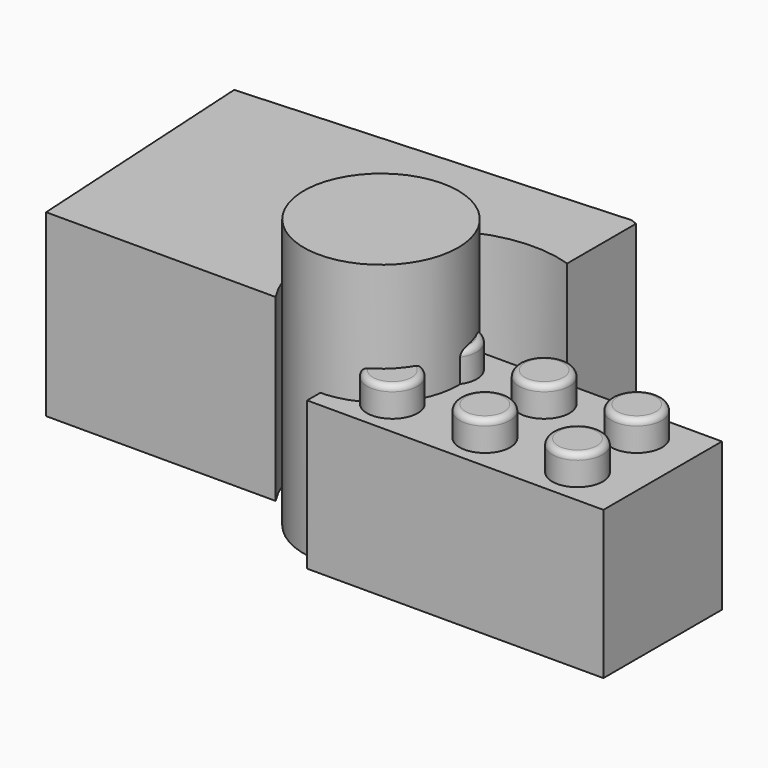
from build123d import *

# Parameters (mm, degrees)
F0_W      = 254
F0_H      = 127
F1_DEPTH  = 127
F2_R      = 21.714111
F3_DEPTH  = 25.4
F4_W      = 234.311492
F4_H      = 107.570172
F5_DEPTH  = 114.3
F6_R      = 5.08
F8_DEPTH  = 153.924
F9_R      = 66.152847
F10_DEPTH = 230.886


with BuildPart() as f1:
    # F0 (on Top) → F1 (new body)
    with BuildSketch(Plane.XY):
        Rectangle(F0_W, F0_H)
    extrude(amount=F1_DEPTH)

    # F2 (on face) → F3 (join)
    with BuildSketch(Plane.XY.offset(127)):
        with Locations((-79.375, 31.75)):
            Circle(F2_R)
        with Locations((0, 31.75)):
            Circle(F2_R)
        with Locations((79.375, 31.75)):
            Circle(F2_R)
        with Locations((79.375, -31.75)):
            Circle(F2_R)
        with Locations((0, -31.75)):
            Circle(F2_R)
        with Locations((-79.375, -31.75)):
            Circle(F2_R)
    extrude(amount=F3_DEPTH)

    # F4 (on face) → F5 (cut)
    with BuildSketch(Plane(origin=(0, 0, 0), x_dir=(1, 0, 0), z_dir=(0, 0, -1))):
        Rectangle(F4_W, F4_H)
    extrude(amount=-F5_DEPTH, mode=Mode.SUBTRACT)

    # F6
    f6_edges = [f1.edges().sort_by_distance(p)[0] for p in [
        (57.660889, 31.75, 152.4),
        (-21.714111, 31.75, 152.4),
        (-101.089111, 31.75, 152.4),
        (-101.089111, -31.75, 152.4),
        (-21.714111, -31.75, 152.4),
        (57.660889, -31.75, 152.4),
    ]]
    fillet(f6_edges, radius=F6_R)


with BuildPart() as f8:
    # F7 (on Top) → F8 (new body)
    with BuildSketch(Plane.XY):
        with BuildLine():
            Line((-401.586056, 0), (-204.827577, 0))
            ThreePointArc((-204.827577, 0), (-200.346246, 123.11768), (-82.770452, 159.914121))
            Line((-82.770452, 159.914121), (-82.770452, 233.648032))
            Line((-82.770452, 233.648032), (-88.275902, 235.853811))
            Line((-88.275902, 235.853811), (-414.06701, 217.126559))
            Line((-414.06701, 217.126559), (-401.586056, 0))
        make_face()
    extrude(amount=F8_DEPTH)


with BuildPart() as f10:
    # F9 (on Top) → F10 (new body)
    with BuildSketch(Plane.XY):
        with Locations((-127.828509, 16.742676)):
            Circle(F9_R)
    extrude(amount=F10_DEPTH)


solid = Compound([f1.part, f8.part, f10.part])
